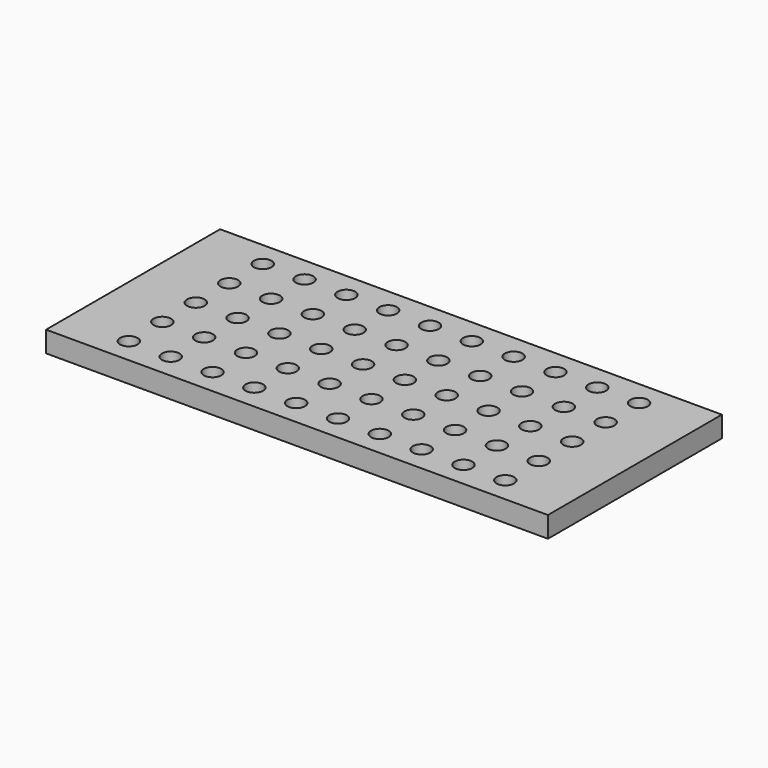
from build123d import *

# Parameters (mm, degrees)
CYLINDER102_R       = 2.1
CYLINDER102_DEPTH   = 10
ARRAY001007_X_COUNT = 10
ARRAY001007_X_PITCH = 10
ARRAY001007_Y_COUNT = 5
ARRAY001007_Y_PITCH = 10
BOX007_W            = 120
BOX007_H            = 52
BOX007_DEPTH        = 5


with BuildPart() as insert_hole_array:
    # Cylinder102 → Cylinder102 (new body)
    with BuildSketch(Plane.XY):
        Circle(CYLINDER102_R)
    extrude(amount=CYLINDER102_DEPTH)

    # Array001007 X: insert_hole array ×10


with BuildPart() as insert_hole_array_1:
    add(insert_hole_array.part)
    with Locations(*[(i * ARRAY001007_X_PITCH, 0, 0) for i in range(1, ARRAY001007_X_COUNT)]):
        add(insert_hole_array.part)

    # Array001007 Y: insert_hole array ×5


with BuildPart() as insert_hole_array_2:
    add(insert_hole_array_1.part)
    with Locations(*[(0, i * ARRAY001007_Y_PITCH, 0) for i in range(1, ARRAY001007_Y_COUNT)]):
        add(insert_hole_array_1.part)


with BuildPart() as insert_hole_array_3:
    # Array001007 placement: moved
    add(insert_hole_array_2.part.moved(Location((15, -20, -5))))


with BuildPart() as bottom_cut:
    # Box007 → Box007 (new body)
    with BuildSketch(Plane(origin=(0, -26, -5), x_dir=(1, 0, 0), z_dir=(0, 0, 1))):
        with Locations((60, 26)):
            Rectangle(BOX007_W, BOX007_H)
    extrude(amount=BOX007_DEPTH)

    # Cut005: cut insert_hole array
    add(insert_hole_array_3.part, mode=Mode.SUBTRACT)


solid = bottom_cut.part
